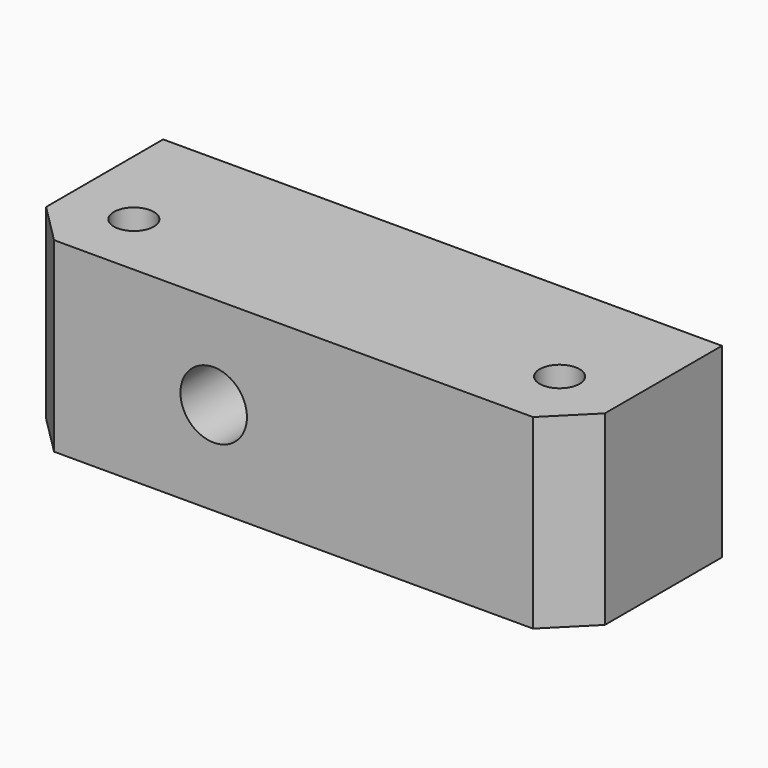
from build123d import *

# Parameters (mm, degrees)
F0_W     = 42
F0_H     = 14
F1_DEPTH = 14
F3_DEPTH = 25
F5_DEPTH = 5
F6_R     = 2.5
F7_DEPTH = 25
F8_SIZE  = 3


with BuildPart() as f1:
    # F0 (on Top) → F1 (new body)
    with BuildSketch(Plane.XY):
        with Locations((21, -7)):
            Rectangle(F0_W, F0_H)
    extrude(amount=F1_DEPTH)

    # F2 (on face) → F3 (cut)
    with BuildSketch(Plane.XY.offset(14)):
        with BuildLine():
            ThreePointArc((5, -10.5), (6.06066, -10.06066), (6.5, -9))
            ThreePointArc((6.5, -9), (3.93934, -7.93934), (5, -10.5))
        make_face()
        with BuildLine():
            ThreePointArc((37, -10.5), (38.06066, -10.06066), (38.5, -9))
            ThreePointArc((38.5, -9), (35.93934, -7.93934), (37, -10.5))
        make_face()
    extrude(amount=-F3_DEPTH, mode=Mode.SUBTRACT)

    # F4 (on face) → F5 (cut)
    with BuildSketch(Plane(origin=(0, 0, 0), x_dir=(-1, 0, 0), z_dir=(0, 1, 0))):
        with BuildLine():
            ThreePointArc((-33, 7), (-32, 6), (-31, 7))
            ThreePointArc((-31, 7), (-32, 8), (-33, 7))
        make_face()
    extrude(amount=-F5_DEPTH, mode=Mode.SUBTRACT)

    # F6 (on face) → F7 (cut)
    with BuildSketch(Plane(origin=(0, 0, 0), x_dir=(-1, 0, 0), z_dir=(0, 1, 0))):
        with Locations((-15, 7)):
            Circle(F6_R)
    extrude(amount=-F7_DEPTH, mode=Mode.SUBTRACT)

    # F8
    f8_edges = [f1.edges().sort_by_distance(p)[0] for p in [
        (0, -14, 7),
        (42, -14, 7),
    ]]
    chamfer(f8_edges, length=F8_SIZE)


solid = f1.part
